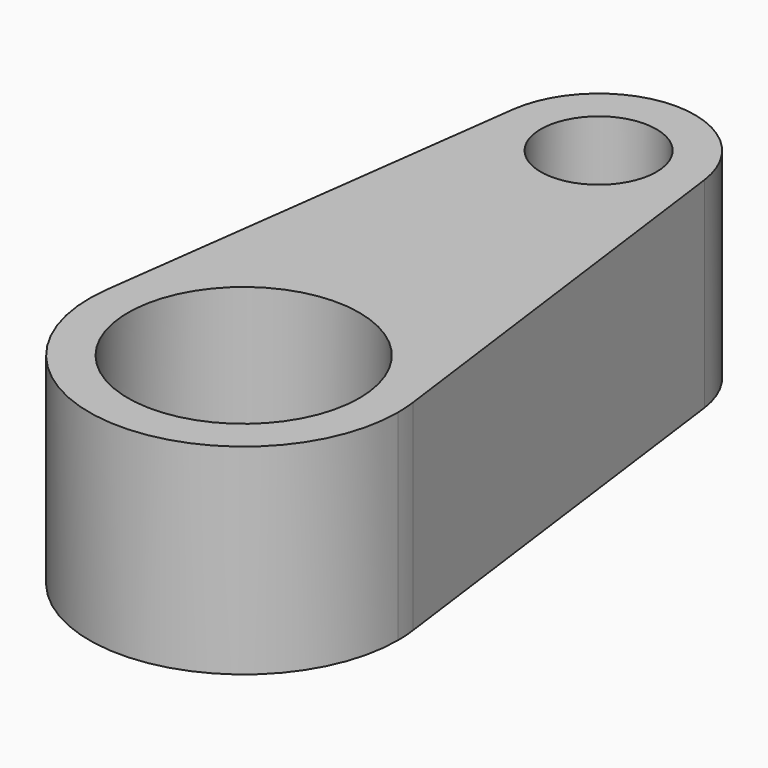
from build123d import *

# Parameters (mm, degrees)
F0_R     = 9.525
F0_R_2   = 4.7625
F1_DEPTH = 16.51


with BuildPart() as f1:
    # F0 (on Top) → F1 (new body)
    with BuildSketch(Plane.XY):
        with BuildLine():
            ThreePointArc((-12.591503, 1.656522), (-0.830035, -12.672847), (12.7, 0))
            ThreePointArc((12.7, 0), (12.672847, 0.830036), (12.591503, 1.656522))
            ThreePointArc((12.591503, 1.656522), (0, 12.7), (-12.591503, 1.656522))
        make_face()
        Circle(F0_R, mode=Mode.SUBTRACT)
        with BuildLine():
            ThreePointArc((-12.591503, 1.656522), (0, 12.7), (12.591503, 1.656522))
            Line((12.591503, 1.656522), (7.869689, 37.547826))
            ThreePointArc((7.869689, 37.547826), (7.920529, 37.031272), (7.9375, 36.5125))
            ThreePointArc((7.9375, 36.5125), (-0.518772, 28.591971), (-7.869689, 37.547826))
            Line((-7.869689, 37.547826), (-12.591503, 1.656522))
        make_face()
        with BuildLine():
            ThreePointArc((7.9375, 36.5125), (7.920529, 37.031272), (7.869689, 37.547826))
            ThreePointArc((7.869689, 37.547826), (0, 44.45), (-7.869689, 37.547826))
            ThreePointArc((-7.869689, 37.547826), (-0.518772, 28.591971), (7.9375, 36.5125))
        make_face()
        with Locations((0, 36.5125)):
            Circle(F0_R_2, mode=Mode.SUBTRACT)
    extrude(amount=F1_DEPTH)


solid = f1.part
